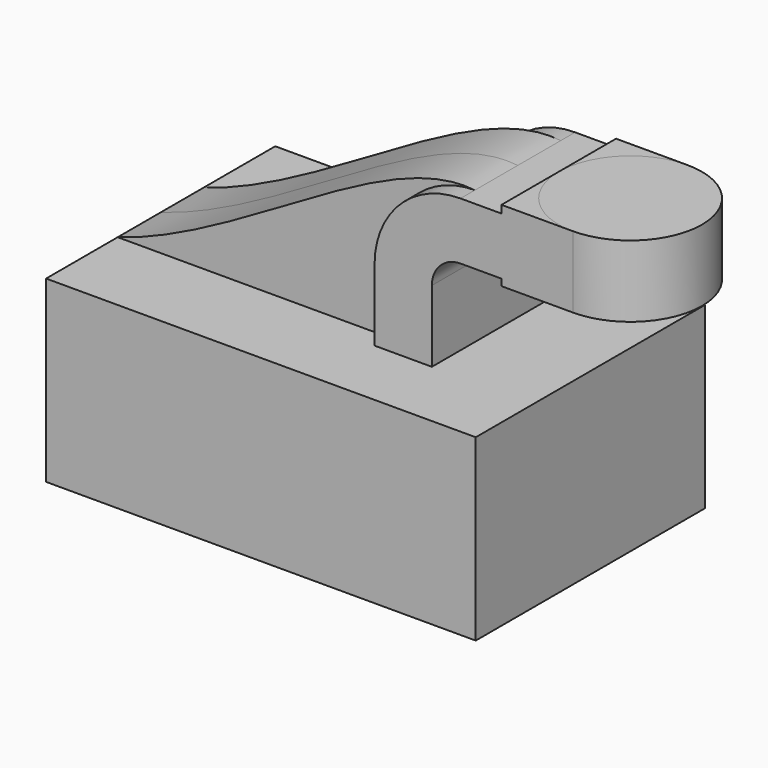
from build123d import *

# Parameters (mm, degrees)
F1_DEPTH = 20
F2_DEPTH = 10
F3_DEPTH = 7.5
F0_W     = 10
F0_H     = 10


with BuildPart() as f1:
    # F0 (on Front) → F1 (new body, symmetric)
    with BuildSketch(Plane.XZ):
        Polygon((-30, -12.5), (30, -12.5), (30, 12.5), (15.873236, 12.5), (7.873236, 12.5), (-30, 12.5), align=None)
    extrude(amount=F1_DEPTH, both=True)


with BuildPart() as f2:
    # F0 (on Front) → F2 (new body, symmetric)
    with BuildSketch(Plane.XZ):
        with BuildLine():
            Line((7.873236, 12.5), (15.873236, 12.5))
            Line((15.873236, 12.5), (15.873236, 22.5))
            ThreePointArc((15.873236, 22.5), (17.044809, 25.328427), (19.873236, 26.5))
            Line((19.873236, 26.5), (25.593648, 26.5))
            Line((25.593648, 26.5), (25.593648, 34.5))
            Line((25.593648, 34.5), (19.873236, 34.5))
            ThreePointArc((19.873236, 34.5), (11.387954, 30.985281), (7.873236, 22.5))
            Line((7.873236, 22.5), (7.873236, 12.5))
        make_face()
        Polygon((25.593648, 35.578057), (25.593648, 34.5), (25.593648, 26.5), (25.593648, 25.578057), (35.593648, 25.578057), (35.593648, 35.578057), align=None)
    extrude(amount=F2_DEPTH, both=True)


with BuildPart() as f3:
    # F0 (on Front) → F3 (new body, symmetric)
    with BuildSketch(Plane.XZ):
        with BuildLine():
            add(Edge.make_bspline(
                [(-30, 12.5), (-12.397196, 17.705459), (7.245554, 35.966527), (19.873236, 34.5)],
                knots=[0, 0, 0, 0, 54.509996, 54.509996, 54.509996, 54.509996], degree=3))
            Line((-30, 12.5), (7.873236, 12.5))
            Line((7.873236, 12.5), (7.873236, 22.5))
            ThreePointArc((7.873236, 22.5), (11.387954, 30.985281), (19.873236, 34.5))
        make_face()
    extrude(amount=F3_DEPTH, both=True)


with BuildPart() as f4:
    # F0 (on Front) → F4 (revolve)
    with BuildSketch(Plane.XZ):
        with Locations((40.593648, 30.578057)):
            Rectangle(F0_W, F0_H)
    revolve(axis=Axis((35.593648, 0, 30.578057), (0, 0, -1)))


solid = Compound([f1.part, f2.part, f3.part, f4.part])
